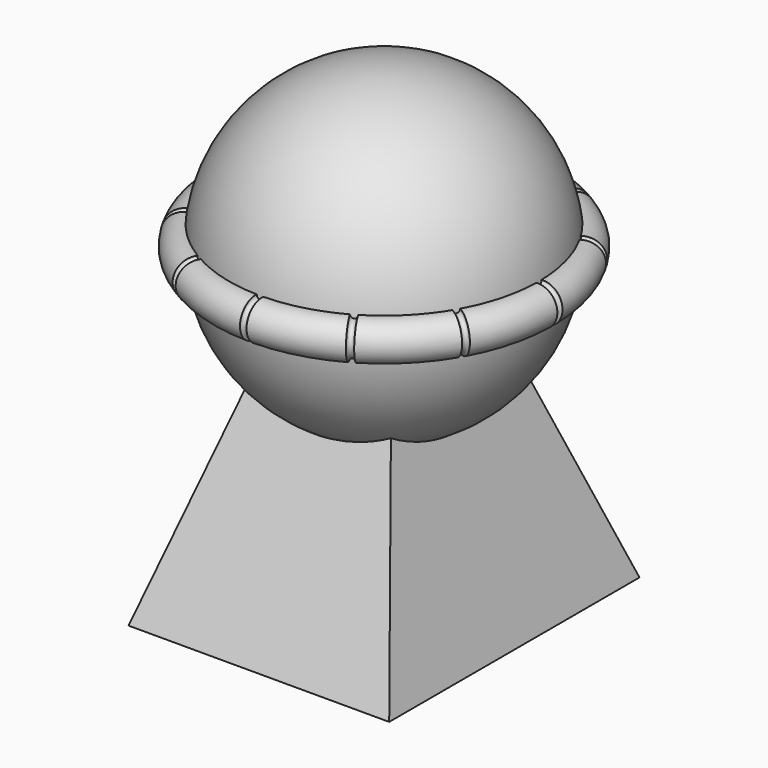
from build123d import *

# Parameters (mm, degrees)
F2_W      = 254
F2_H      = 304.8
F3_W      = 76.2
F3_H      = 76.2
F6_R      = 19.05
F10_T     = -2.54
F11_R     = 3.175
F13_COUNT = 12
F15_T     = -5.08
F20_T     = -1.27


with BuildPart() as f4:
    # F2 (on offset) → F4 section 0
    with BuildSketch(Plane.XY.offset(-152.4)):
        Rectangle(F2_W, F2_H)
    # F3 (on offset) → F4 section 1
    with BuildSketch(Plane.XY.offset(152.4)):
        Rectangle(F3_W, F3_H)
    loft()

    # F10
    f10_openings = [f4.faces().sort_by_distance(p)[0] for p in [
        (0, 0, -152.4),
    ]]
    offset(amount=F10_T, openings=f10_openings, kind=Kind.INTERSECTION)


with BuildPart() as f7:
    # F6 (on Front) → F7 (revolve)
    with BuildSketch(Plane.XZ):
        with Locations((152.4, 152.4)):
            Circle(F6_R)
    revolve(axis=Axis((0, 0, 152.4), (0, 0, 1)))


with BuildPart() as f9:
    # F8 (on Front) → F9 (revolve)
    with BuildSketch(Plane.XZ):
        with BuildLine():
            Line((0, 57.15), (0, 247.65))
            ThreePointArc((0, 247.65), (-95.25, 152.4), (0, 57.15))
        make_face()
    revolve(axis=Axis((0, 0, 152.4), (0, 0, 1)))

    # F15 (hollow: no face is removed)
    offset(amount=F15_T, mode=Mode.SUBTRACT)


with BuildPart() as f12:
    # F11 (on offset) → F12 (revolve)
    with BuildSketch(Plane.XY.offset(152.4)):
        with Locations((171.45, 0)):
            Circle(F11_R)
    revolve(axis=Axis((152.4, 0, 152.4), (0, -1, 0)))


with BuildPart() as f13_1:
    # F13: instance of F12
    add(f12.part.rotate(Axis((0, 0, 152.4), (0, 0, 1)), 1 * 360 / F13_COUNT))


with BuildPart() as f13_2:
    # F13: instance of F12
    add(f12.part.rotate(Axis((0, 0, 152.4), (0, 0, 1)), 2 * 360 / F13_COUNT))


with BuildPart() as f13_3:
    # F13: instance of F12
    add(f12.part.rotate(Axis((0, 0, 152.4), (0, 0, 1)), 3 * 360 / F13_COUNT))


with BuildPart() as f13_4:
    # F13: instance of F12
    add(f12.part.rotate(Axis((0, 0, 152.4), (0, 0, 1)), 4 * 360 / F13_COUNT))


with BuildPart() as f13_5:
    # F13: instance of F12
    add(f12.part.rotate(Axis((0, 0, 152.4), (0, 0, 1)), 5 * 360 / F13_COUNT))


with BuildPart() as f13_6:
    # F13: instance of F12
    add(f12.part.rotate(Axis((0, 0, 152.4), (0, 0, 1)), 6 * 360 / F13_COUNT))


with BuildPart() as f13_7:
    # F13: instance of F12
    add(f12.part.rotate(Axis((0, 0, 152.4), (0, 0, 1)), 7 * 360 / F13_COUNT))


with BuildPart() as f13_8:
    # F13: instance of F12
    add(f12.part.rotate(Axis((0, 0, 152.4), (0, 0, 1)), 8 * 360 / F13_COUNT))


with BuildPart() as f13_9:
    # F13: instance of F12
    add(f12.part.rotate(Axis((0, 0, 152.4), (0, 0, 1)), 9 * 360 / F13_COUNT))


with BuildPart() as f13_10:
    # F13: instance of F12
    add(f12.part.rotate(Axis((0, 0, 152.4), (0, 0, 1)), 10 * 360 / F13_COUNT))


with BuildPart() as f13_11:
    # F13: instance of F12
    add(f12.part.rotate(Axis((0, 0, 152.4), (0, 0, 1)), 11 * 360 / F13_COUNT))


with BuildPart() as f7_1:
    add(f7.part)

    # F14: cut F12, F13_1, F13_2, F13_3, F13_4, F13_5, F13_6, F13_7, F13_8, F13_9, F13_10, F13_11
    add(f12.part, mode=Mode.SUBTRACT)
    add(f13_1.part, mode=Mode.SUBTRACT)
    add(f13_2.part, mode=Mode.SUBTRACT)
    add(f13_3.part, mode=Mode.SUBTRACT)
    add(f13_4.part, mode=Mode.SUBTRACT)
    add(f13_5.part, mode=Mode.SUBTRACT)
    add(f13_6.part, mode=Mode.SUBTRACT)
    add(f13_7.part, mode=Mode.SUBTRACT)
    add(f13_8.part, mode=Mode.SUBTRACT)
    add(f13_9.part, mode=Mode.SUBTRACT)
    add(f13_10.part, mode=Mode.SUBTRACT)
    add(f13_11.part, mode=Mode.SUBTRACT)


with BuildPart() as f17:
    # F16 (on Front) → F17 (revolve)
    with BuildSketch(Plane.XZ):
        with BuildLine():
            Line((0, 95.25), (0, 209.55))
            ThreePointArc((0, 209.55), (-57.15, 152.4), (0, 95.25))
        make_face()
    revolve(axis=Axis((0, 0, 152.4), (0, 0, 1)))


with BuildPart() as f19:
    # F18 (on Front) → F19 (revolve)
    with BuildSketch(Plane.XZ):
        with BuildLine():
            Line((0, 0), (0, 304.8))
            ThreePointArc((0, 304.8), (-152.4, 152.4), (0, 0))
        make_face()
    revolve(axis=Axis((0, 0, 152.4), (0, 0, -1)))

    # F20 (hollow: no face is removed)
    offset(amount=F20_T, mode=Mode.SUBTRACT)


with BuildPart() as f4_1:
    add(f4.part)

    # F21: cut F19
    add(f19.part, mode=Mode.SUBTRACT)


solid = Compound([f9.part, f7_1.part, f17.part, f19.part, f4_1.part])
